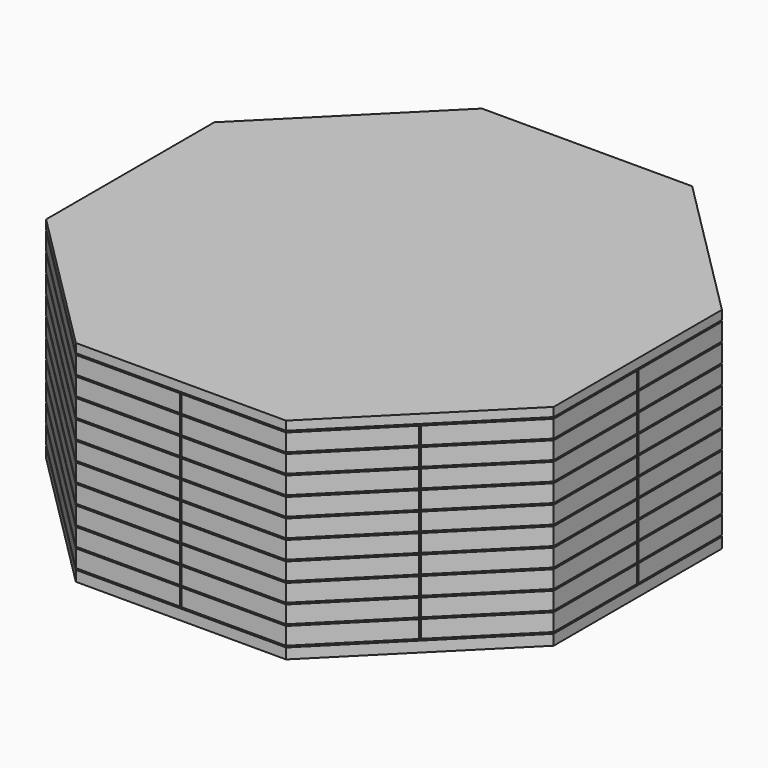
from build123d import *

# Parameters (mm, degrees)
F2_DEPTH = 40
F3_START = 2
F3_DEPTH = 36


with BuildPart() as f2:
    # F0 (on Top) → F2 (new body)
    with BuildSketch(Plane.XY):
        Polygon((48.2842712475, -20), (48.2842712475, 20), (20, 48.2842712475), (-20, 48.2842712475), (-48.2842712475, 20), (-48.2842712475, -20), (-20, -48.2842712475), (20, -48.2842712475), align=None)
    extrude(amount=F2_DEPTH)

    # F1 (on Top) → F3 (cut)
    with BuildSketch(Plane.XY.offset(F3_START)):
        Polygon((-48.2842712475, -0.15), (-48.0244636263, 0), (-48.2842712475, 0.15), align=None)
        Polygon((-33.958423893, -33.958423893), (-34.2482016409, -34.0360696066), (-34.0360696066, -34.2482016409), align=None)
        Polygon((0, -48.0244636263), (-0.15, -48.2842712475), (0.15, -48.2842712475), align=None)
        Polygon((33.958423893, -33.958423893), (34.0360696066, -34.2482016409), (34.2482016409, -34.0360696066), align=None)
        Polygon((48.0244636263, 0), (48.2842712475, -0.15), (48.2842712475, 0.15), align=None)
        Polygon((33.958423893, 33.958423893), (34.2482016409, 34.0360696066), (34.0360696066, 34.2482016409), align=None)
        Polygon((0, 48.0244636263), (0.15, 48.2842712475), (-0.15, 48.2842712475), align=None)
        Polygon((-33.958423893, 33.958423893), (-34.0360696066, 34.2482016409), (-34.2482016409, 34.0360696066), align=None)
    extrude(amount=F3_DEPTH, mode=Mode.SUBTRACT)

    # F6: sweep along a path in F5
    with BuildLine(Plane.XY.offset(2)) as f6_path:
        Line((-48.2842712475, -20), (-48.2842712475, 20))
        Line((-48.2842712475, 20), (-20, 48.2842712475))
        Line((-20, 48.2842712475), (20, 48.2842712475))
        Line((20, 48.2842712475), (48.2842712475, 20))
        Line((48.2842712475, 20), (48.2842712475, -20))
        Line((48.2842712475, -20), (20, -48.2842712475))
        Line((20, -48.2842712475), (-20, -48.2842712475))
        Line((-20, -48.2842712475), (-48.2842712475, -20))
    # F4 (on Front) → F6 (sweep, cut)
    with BuildSketch(Plane.XZ):
        Polygon((-48.0244636263, 2.15), (-48.2842712475, 2.3), (-48.2842712475, 2), align=None)
        Polygon((-48.0244636263, 5.75), (-48.2842712475, 5.9), (-48.2842712475, 5.6), align=None)
        Polygon((-48.0244636263, 9.35), (-48.2842712475, 9.5), (-48.2842712475, 9.2), align=None)
        Polygon((-48.0244636263, 12.95), (-48.2842712475, 13.1), (-48.2842712475, 12.8), align=None)
        Polygon((-48.0244636263, 16.55), (-48.2842712475, 16.7), (-48.2842712475, 16.4), align=None)
        Polygon((-48.0244636263, 20.15), (-48.2842712475, 20.3), (-48.2842712475, 20), align=None)
        Polygon((-48.0244636263, 23.75), (-48.2842712475, 23.9), (-48.2842712475, 23.6), align=None)
        Polygon((-48.0244636263, 27.35), (-48.2842712475, 27.5), (-48.2842712475, 27.2), align=None)
        Polygon((-48.0244636263, 30.95), (-48.2842712475, 31.1), (-48.2842712475, 30.8), align=None)
        Polygon((-48.0244636263, 34.55), (-48.2842712475, 34.7), (-48.2842712475, 34.4), align=None)
        Polygon((-48.0244636263, 38.15), (-48.2842712475, 38.3), (-48.2842712475, 38), align=None)
    sweep(path=f6_path.line, transition=Transition.RIGHT, mode=Mode.SUBTRACT)


solid = f2.part
